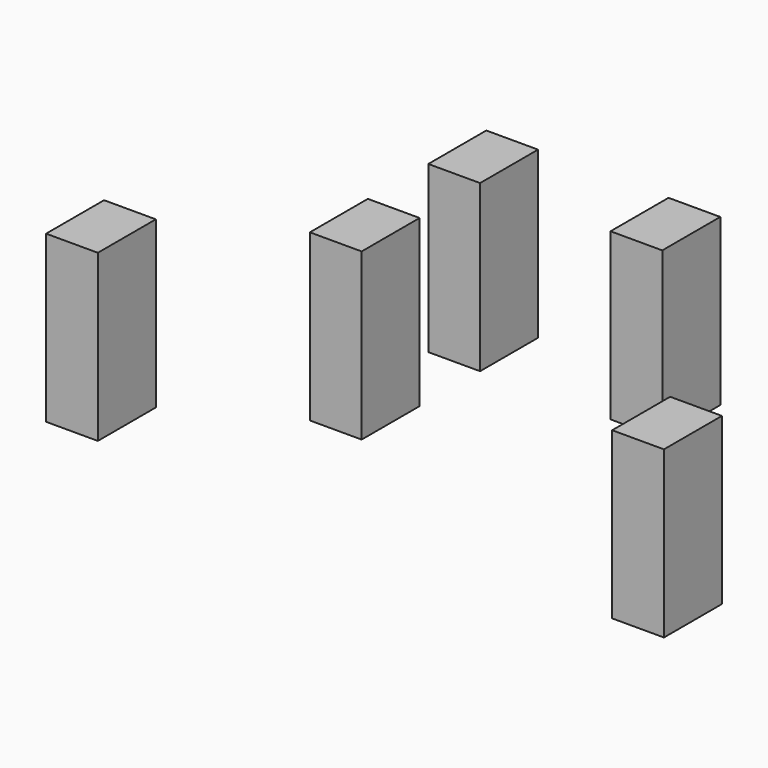
from build123d import *

# Parameters (mm, degrees)
F0_W     = 5
F0_H     = 7
F1_DEPTH = 8


with BuildPart() as f1:
    # F0 (on Top) → F1 (new body, symmetric)
    with BuildSketch(Plane.XY):
        with Locations((-17.230381, 11.488314)):
            Rectangle(F0_W, F0_H)
    extrude(amount=F1_DEPTH, both=True)


with BuildPart() as f2_1:
    # F2: copy of F1
    add(f1.part.moved(Location((17.6, 0, 0))))


with BuildPart() as f3_1:
    # F3: copy of F2_1
    add(f2_1.part.moved(Location((20.4, -25.3, 0))))


with BuildPart() as f4_1:
    # F4: copy of F1
    add(f1.part.moved(Location((-15.4, -26.9, 0))))


with BuildPart() as f5_1:
    # F5: copy of F1
    add(f1.part.moved(Location((0, -14.3, 0))))


solid = Compound([f1.part, f2_1.part, f3_1.part, f4_1.part, f5_1.part])
